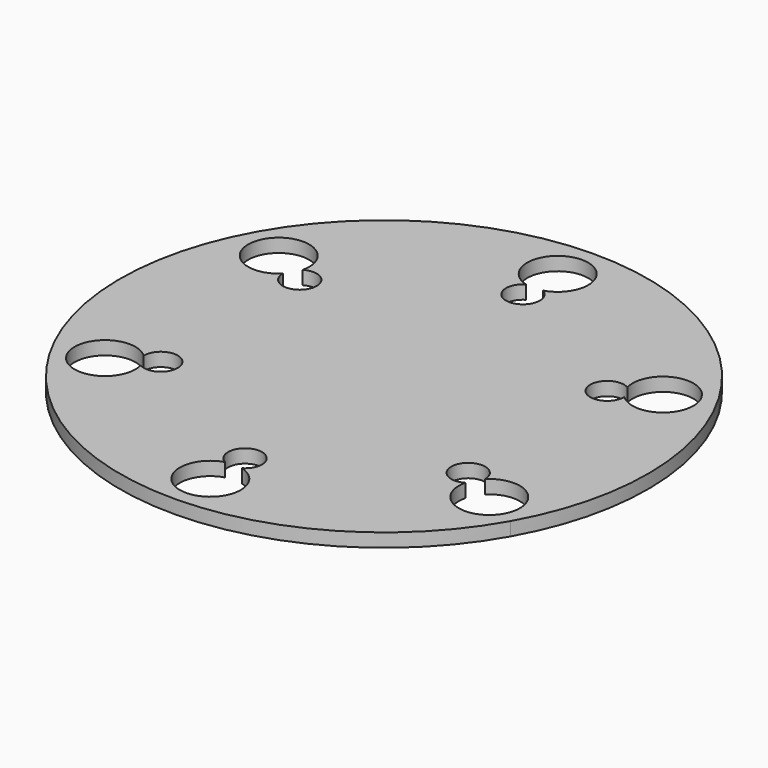
from build123d import *

# Parameters (mm, degrees)
F1_DEPTH = 2.54
F2_D     = 11.43
F3_D     = 6.35


with BuildPart() as f1:
    # F0 (on Top) → F1 (new body)
    with BuildSketch(Plane.XY):
        with BuildLine():
            ThreePointArc((14.1469296791, 24.581208667), (28.3570527779, 32.9867129725), (42.7414945684, 24.8831374968))
            ThreePointArc((42.7414945684, 24.8831374968), (24.4218518628, 42.8199500657), (-0.4118303798, 49.1938641112))
            ThreePointArc((-0.4118303798, 49.1938641112), (11.3750266033, 44.4205864041), (16.2724880694, 32.6847843949))
            ThreePointArc((16.2724880694, 32.6847843949), (15.7322599992, 28.495931985), (14.1469296791, 24.581208667))
        make_face()
        with BuildLine():
            ThreePointArc((-14.4476350188, 24.2792801377), (-14.6219536378, 40.7883599496), (-0.4118303798, 49.1938641112))
            ThreePointArc((-0.4118303798, 49.1938641112), (-25.1053870129, 42.2969945819), (-43.0421996808, 23.9773521233))
            ThreePointArc((-43.0421996808, 23.9773521233), (-28.8320764588, 32.3828558193), (-14.4476350188, 24.2792801377))
        make_face()
        with BuildLine():
            ThreePointArc((-28.4834395144, -0.6353036127), (-42.8678814784, 7.4682721021), (-43.0421996808, 23.9773521233))
            ThreePointArc((-43.0421996808, 23.9773521233), (-49.4161139914, -0.8563299278), (-42.5192447927, -25.5498866402))
            ThreePointArc((-42.5192447927, -25.5498866402), (-42.6935625622, -9.0408072614), (-28.4834395144, -0.6353036127))
        make_face()
        with BuildLine():
            ThreePointArc((-42.5192447927, -25.5498866402), (-24.1996024135, -43.4866996437), (0.6340797732, -49.8606141921))
            ThreePointArc((0.6340797732, -49.8606141921), (-13.7503612776, -41.757037972), (-13.9246792181, -25.2479584958))
            ThreePointArc((-13.9246792181, -25.2479584958), (-28.1348028533, -33.6534630478), (-42.5192447927, -25.5498866402))
        make_face()
        with BuildLine():
            ThreePointArc((0.6340797732, -49.8606141921), (25.3276368535, -42.9637449392), (43.2644499105, -24.6441023627))
            ThreePointArc((43.2644499105, -24.6441023627), (29.0543267516, -33.0496058908), (14.6698854093, -24.9460303205))
            ThreePointArc((14.6698854093, -24.9460303205), (16.3844166198, -28.9943010133), (16.969762255, -33.351534466))
            ThreePointArc((16.969762255, -33.351534466), (12.1955639367, -44.9640733309), (0.6340797732, -49.8606141921))
        make_face()
        with BuildLine():
            ThreePointArc((43.2644499105, -24.6441023627), (48.0204409306, -12.8999323449), (49.6411251622, -0.3333750356))
            ThreePointArc((49.6411251622, -0.3333750356), (47.8850882419, 12.7383253763), (42.7414945684, 24.8831374968))
            ThreePointArc((42.7414945684, 24.8831374968), (44.4560258195, 20.8348667633), (45.0413714688, 16.4776332587))
            ThreePointArc((45.0413714688, 16.4776332587), (40.2671733446, 4.86509459), (28.7056895388, -0.0314464615))
            ThreePointArc((28.7056895388, -0.0314464615), (40.4925468917, -4.8047239608), (45.3900085616, -16.5405261717))
            ThreePointArc((45.3900085616, -16.5405261717), (44.8497804239, -20.7293788387), (43.2644499105, -24.6441023627))
        make_face()
        with BuildLine():
            ThreePointArc((14.6698854093, -24.9460303205), (29.0543267516, -33.0496058908), (43.2644499105, -24.6441023627))
            ThreePointArc((43.2644499105, -24.6441023627), (44.8497804239, -20.7293788387), (45.3900085616, -16.5405261717))
            ThreePointArc((45.3900085616, -16.5405261717), (40.4925468917, -4.8047239608), (28.7056895388, -0.0314464615))
            ThreePointArc((28.7056895388, -0.0314464615), (14.4955667445, -8.436950812), (14.6698854093, -24.9460303205))
        make_face()
        with BuildLine():
            ThreePointArc((-13.9246792181, -25.2479584958), (-13.7503612776, -41.757037972), (0.6340797732, -49.8606141921))
            ThreePointArc((0.6340797732, -49.8606141921), (12.1955639367, -44.9640733309), (16.969762255, -33.351534466))
            ThreePointArc((16.969762255, -33.351534466), (16.3844166198, -28.9943010133), (14.6698854093, -24.9460303205))
            ThreePointArc((14.6698854093, -24.9460303205), (0.2854439404, -16.8424547484), (-13.9246792181, -25.2479584958))
        make_face()
        with BuildLine():
            ThreePointArc((-28.4834395144, -0.6353036127), (-42.6935625622, -9.0408072614), (-42.5192447927, -25.5498866402))
            ThreePointArc((-42.5192447927, -25.5498866402), (-28.1348028533, -33.6534630478), (-13.9246792181, -25.2479584958))
            ThreePointArc((-13.9246792181, -25.2479584958), (-12.3393491328, -21.3332354278), (-11.7991211444, -17.1443833299))
            ThreePointArc((-11.7991211444, -17.1443833299), (-16.6965825823, -5.4085813485), (-28.4834395144, -0.6353036127))
        make_face()
        with BuildLine():
            ThreePointArc((-14.4476350188, 24.2792801377), (-28.8320764588, 32.3828558193), (-43.0421996808, 23.9773521233))
            ThreePointArc((-43.0421996808, 23.9773521233), (-42.8678814784, 7.4682721021), (-28.4834395144, -0.6353036127))
            ThreePointArc((-28.4834395144, -0.6353036127), (-16.9219561318, 4.2612376639), (-12.1477582372, 15.8737761006))
            ThreePointArc((-12.1477582372, 15.8737761006), (-12.7331038558, 20.2310094926), (-14.4476350188, 24.2792801377))
        make_face()
        with BuildLine():
            ThreePointArc((16.2724880694, 32.6847843949), (11.3750266033, 44.4205864041), (-0.4118303798, 49.1938641112))
            ThreePointArc((-0.4118303798, 49.1938641112), (-14.6219536378, 40.7883599496), (-14.4476350188, 24.2792801377))
            ThreePointArc((-14.4476350188, 24.2792801377), (-0.0631934119, 16.1757046794), (14.1469296791, 24.581208667))
            ThreePointArc((14.1469296791, 24.581208667), (15.7322599992, 28.495931985), (16.2724880694, 32.6847843949))
        make_face()
        with BuildLine():
            ThreePointArc((45.0413714688, 16.4776332587), (44.4560258195, 20.8348667633), (42.7414945684, 24.8831374968))
            ThreePointArc((42.7414945684, 24.8831374968), (28.3570527779, 32.9867129725), (14.1469296791, 24.581208667))
            ThreePointArc((14.1469296791, 24.581208667), (14.3212482409, 8.0721292377), (28.7056895388, -0.0314464615))
            ThreePointArc((28.7056895388, -0.0314464615), (40.2671733446, 4.86509459), (45.0413714688, 16.4776332587))
        make_face()
        with BuildLine():
            ThreePointArc((28.7056895388, -0.0314464615), (14.3212482409, 8.0721292377), (14.1469296791, 24.581208667))
            ThreePointArc((14.1469296791, 24.581208667), (-0.0631934119, 16.1757046794), (-14.4476350188, 24.2792801377))
            ThreePointArc((-14.4476350188, 24.2792801377), (-12.7331038558, 20.2310094926), (-12.1477582372, 15.8737761006))
            ThreePointArc((-12.1477582372, 15.8737761006), (-16.9219561318, 4.2612376639), (-28.4834395144, -0.6353036127))
            ThreePointArc((-28.4834395144, -0.6353036127), (-16.6965825823, -5.4085813485), (-11.7991211444, -17.1443833299))
            ThreePointArc((-11.7991211444, -17.1443833299), (-12.3393491328, -21.3332354278), (-13.9246792181, -25.2479584958))
            ThreePointArc((-13.9246792181, -25.2479584958), (0.2854439404, -16.8424547484), (14.6698854093, -24.9460303205))
            ThreePointArc((14.6698854093, -24.9460303205), (14.4955667445, -8.436950812), (28.7056895388, -0.0314464615))
        make_face()
    extrude(amount=-F1_DEPTH)

    # F2 (through all)
    with Locations(Plane.XY):
        with Locations((-0.3246712038, 40.9393242526), (35.6364330455, 20.6803853323), (36.0722294115, -20.5923139558), (0.5469215282, -41.6060743237), (-35.4141827211, -21.3471354034), (-35.849979087, 19.9255638847)):
            Hole(F2_D / 2)

    # F3 (through all)
    with Locations(Plane.XY):
        with Locations((-28.6577582372, 15.8737761006), (-0.2375119306, 32.6847843949), (28.5313714688, 16.4776332587), (28.8800085616, -16.5405261717), (0.459762255, -33.351534466), (-28.3091211444, -17.1443833299)):
            Hole(F3_D / 2)


solid = f1.part
